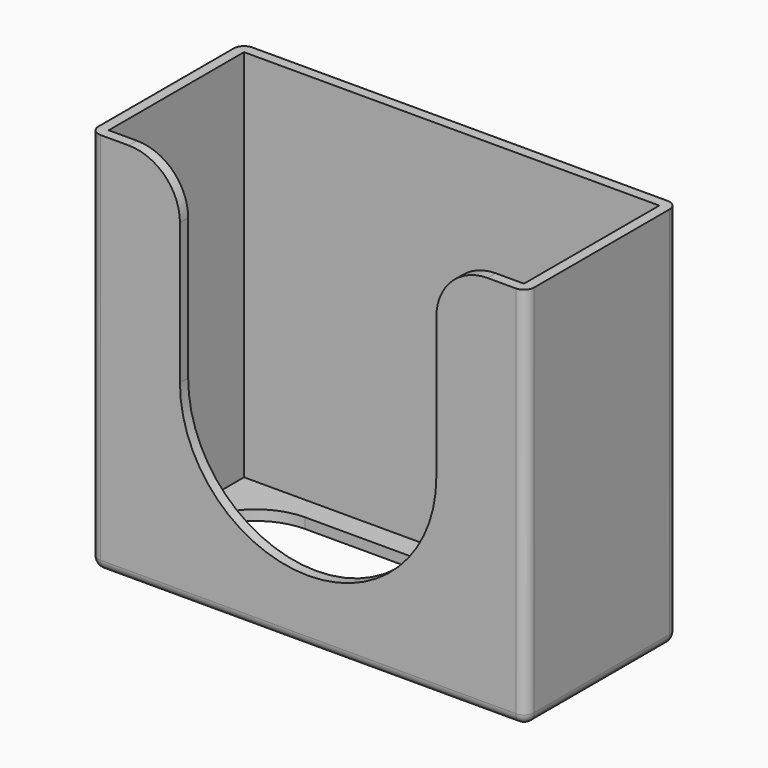
from build123d import *

# Parameters (mm, degrees)
SKETCH_W        = 42.5
SKETCH_H        = 18.5
PAD_DEPTH       = 18.75
SKETCH001_W     = 40.5
SKETCH001_H     = 16.5
POCKET_DEPTH    = 18.75
POCKET001_DEPTH = 9.251
SKETCH003_W     = 34
SKETCH003_H     = 29
POCKET002_DEPTH = 0.1
POCKET003_DEPTH = 18.751
FILLET_R        = 5
FILLET001_R     = 1


with BuildPart() as part:
    # Sketch → Pad (new body, symmetric)
    with BuildSketch(Plane.XY):
        Rectangle(SKETCH_W, SKETCH_H)
    extrude(amount=PAD_DEPTH, both=True)

    # Sketch001 → Pocket (cut, symmetric)
    with BuildSketch(Plane.XY.offset(1)):
        Rectangle(SKETCH001_W, SKETCH001_H)
    extrude(amount=POCKET_DEPTH, both=True, mode=Mode.SUBTRACT)

    # Sketch002 → Pocket001 (cut, through all)
    with BuildSketch(Plane.XZ):
        with BuildLine():
            ThreePointArc((-12.5, 0), (0, -12.5), (12.5, 0))
            Line((12.5, 21.558593), (12.5, 0))
            Line((-12.5, 21.558593), (12.5, 21.558593))
            Line((-12.5, 0), (-12.5, 21.558593))
        make_face()
    extrude(amount=POCKET001_DEPTH, mode=Mode.SUBTRACT)

    # Sketch003 → Pocket002 (cut)
    with BuildSketch(Plane(origin=(0, 9.25, 0), x_dir=(-1, 0, 0), z_dir=(0, 1, 0))):
        Rectangle(SKETCH003_W, SKETCH003_H)
    extrude(amount=-POCKET002_DEPTH, mode=Mode.SUBTRACT)

    # Sketch004 → Pocket003 (cut, through all)
    with BuildSketch(Plane.XY):
        with BuildLine():
            ThreePointArc((-12.5, 6), (-18.5, 0), (-12.5, -6))
            Line((-12.5, -6), (12.5, -6))
            ThreePointArc((12.5, -6), (18.5, 0), (12.5, 6))
            Line((12.5, 6), (-12.5, 6))
        make_face()
    extrude(amount=-POCKET003_DEPTH, mode=Mode.SUBTRACT)

    # Fillet
    fillet_edges = [part.edges().sort_by_distance(p)[0] for p in [
        (-12.5, -8.75, 18.75),
        (12.5, -8.75, 18.75),
    ]]
    fillet(fillet_edges, radius=FILLET_R)

    # Fillet001
    fillet001_edges = [part.edges().sort_by_distance(p)[0] for p in [
        (-21.25, 9.25, 0),
        (-21.25, -9.25, 0),
        (21.25, -9.25, 0),
        (21.25, 9.25, 0),
        (-21.25, 0, -18.75),
        (0, -9.25, -18.75),
        (0, 9.25, -18.75),
        (21.25, 0, -18.75),
    ]]
    fillet(fillet001_edges, radius=FILLET001_R)


solid = part.part
